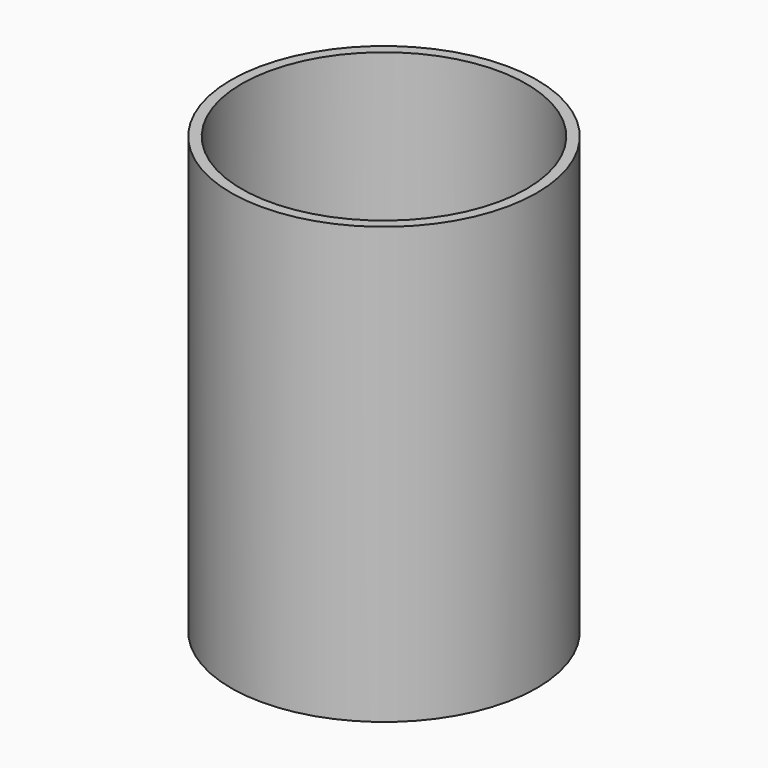
from build123d import *

# Parameters (mm, degrees)
F0_R     = 43.5
F0_R_2   = 40.5
F1_DEPTH = 124
F2_DEPTH = 5
F4_DEPTH = 43.501


with BuildPart() as f1:
    # F0 (on Top) → F1 (new body)
    with BuildSketch(Plane.XY):
        Circle(F0_R)
        Circle(F0_R_2, mode=Mode.SUBTRACT)
    extrude(amount=F1_DEPTH)

    # F0 (on Top) → F2 (join)
    with BuildSketch(Plane.XY):
        Circle(F0_R_2)
    extrude(amount=F2_DEPTH)

    # F3 (on Front) → F4 (cut, through all)
    with BuildSketch(Plane.XZ):
        with BuildLine():
            Line((-11.173021, 68.756767), (0, 55.116978))
            Line((0, 55.116978), (11.180688, 68.750483))
            ThreePointArc((11.180688, 68.750483), (6.798893, 74.367971), (0, 72.239272))
            ThreePointArc((0, 72.239272), (-6.790198, 74.359844), (-11.173021, 68.756767))
        make_face()
    extrude(amount=-F4_DEPTH, mode=Mode.SUBTRACT)


solid = f1.part
